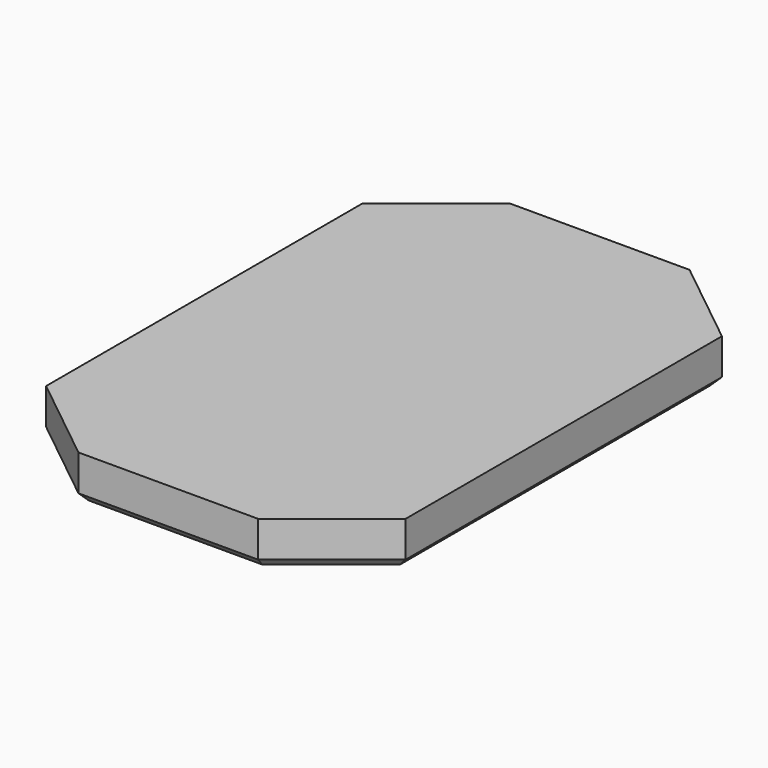
from build123d import *

# Parameters (mm, degrees)
F1_DEPTH = 12.7
F2_SIZE  = 2.54


with BuildPart() as f1:
    # F0 (on Top) → F1 (new body)
    with BuildSketch(Plane.XY):
        Polygon((0, 76.2), (0, 0), (50.8, 0), (50.8, 55.88), (25.4, 76.2), align=None)
        Polygon((-50.8, 0), (0, 0), (0, 76.2), (-25.4, 76.2), (-50.8, 55.88), align=None)
        Polygon((0, -76.2), (0, 0), (-50.8, 0), (-50.8, -55.88), (-25.4, -76.2), align=None)
        Polygon((50.8, 0), (0, 0), (0, -76.2), (25.4, -76.2), (50.8, -55.88), align=None)
    extrude(amount=F1_DEPTH)

    # F2
    f2_edges = [f1.edges().sort_by_distance(p)[0] for p in [
        (50.8, 0, 0),
        (38.1, 66.04, 0),
        (0, 76.2, 0),
        (-38.1, 66.04, 0),
        (-50.8, 0, 0),
        (-38.1, -66.04, 0),
        (0, -76.2, 0),
        (38.1, -66.04, 0),
    ]]
    chamfer(f2_edges, length=F2_SIZE)


solid = f1.part
